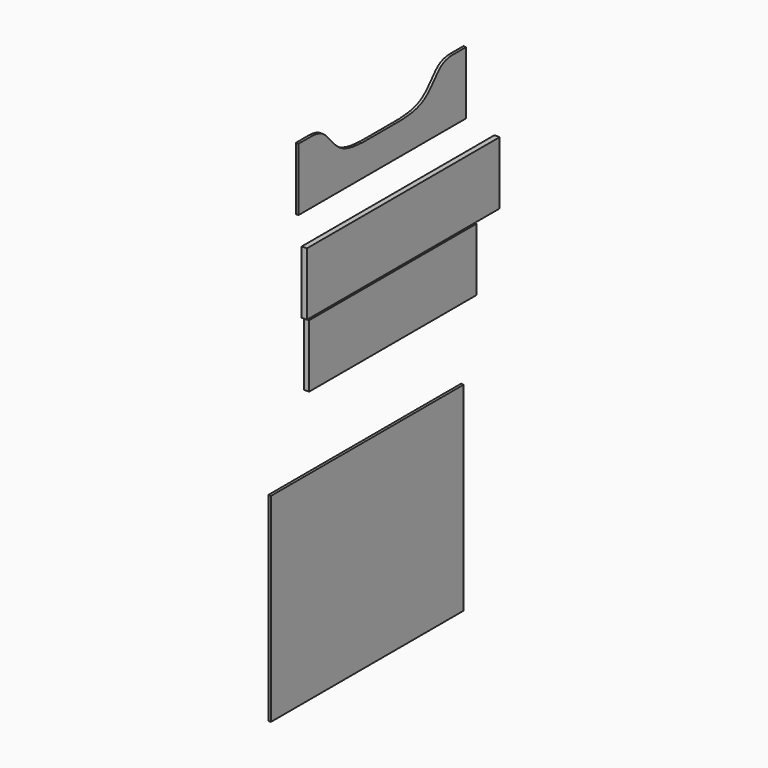
from build123d import *

# Parameters (mm, degrees)
F0_W     = 584.2
F0_H     = 152.4
F1_DEPTH = 12.7
F2_W     = 508
F2_H     = 152.4
F3_DEPTH = 12.7
F4_W     = 584.2
F4_H     = 482.6
F5_DEPTH = 6.35
F7_DEPTH = 6.35


with BuildPart() as f1:
    # F0 (on Right) → F1 (new body)
    with BuildSketch(Plane.YZ):
        Rectangle(F0_W, F0_H)
    extrude(amount=F1_DEPTH)


with BuildPart() as f3:
    # F2 (on Right) → F3 (new body)
    with BuildSketch(Plane.YZ):
        with Locations((-31.6194959879, -156.34352808)):
            Rectangle(F2_W, F2_H)
    extrude(amount=F3_DEPTH)


with BuildPart() as f5:
    # F4 (on Right) → F5 (new body)
    with BuildSketch(Plane.YZ):
        with Locations((-101.1885877609, -654.4928419113)):
            Rectangle(F4_W, F4_H)
    extrude(amount=F5_DEPTH)


with BuildPart() as f7:
    # F6 (on Right) → F7 (new body)
    with BuildSketch(Plane.YZ):
        with BuildLine():
            Line((-309.8578155041, 304.6216200829), (-309.8578155041, 152.2216200829))
            Line((-309.8578155041, 152.2216200829), (198.1421844959, 152.2216200829))
            Line((198.1421844959, 152.2216200829), (198.1421844959, 304.6216200829))
            Line((198.1421844959, 304.6216200829), (155.2530093381, 304.6216200829))
            add(Edge.make_bspline(
                [(-55.8578155041, 228.4216200829), (-16.1413426703, 228.9934551226), (75.0673796799, 220.49521215), (112.0596419763, 296.8255057536), (143.3211881258, 303.8389214173), (155.2530093381, 304.6216200829)],
                knots=[0, 0, 0, 0, 0.3873995373, 0.6985011211, 0.8476284984, 0.8476284984, 0.8476284984, 0.8476284984], degree=3))
            add(Edge.make_bspline(
                [(-55.8578155041, 228.4216200829), (-95.5742883379, 228.9934551226), (-186.783010688, 220.49521215), (-223.7752729844, 296.8255057536), (-255.0368191339, 303.8389214173), (-266.9686403462, 304.6216200829)],
                knots=[0, 0, 0, 0, 0.3873995373, 0.6985011211, 0.8476284984, 0.8476284984, 0.8476284984, 0.8476284984], degree=3))
            Line((-266.9686403462, 304.6216200829), (-309.8578155041, 304.6216200829))
        make_face()
    extrude(amount=F7_DEPTH)


solid = Compound([f1.part, f3.part, f5.part, f7.part])
